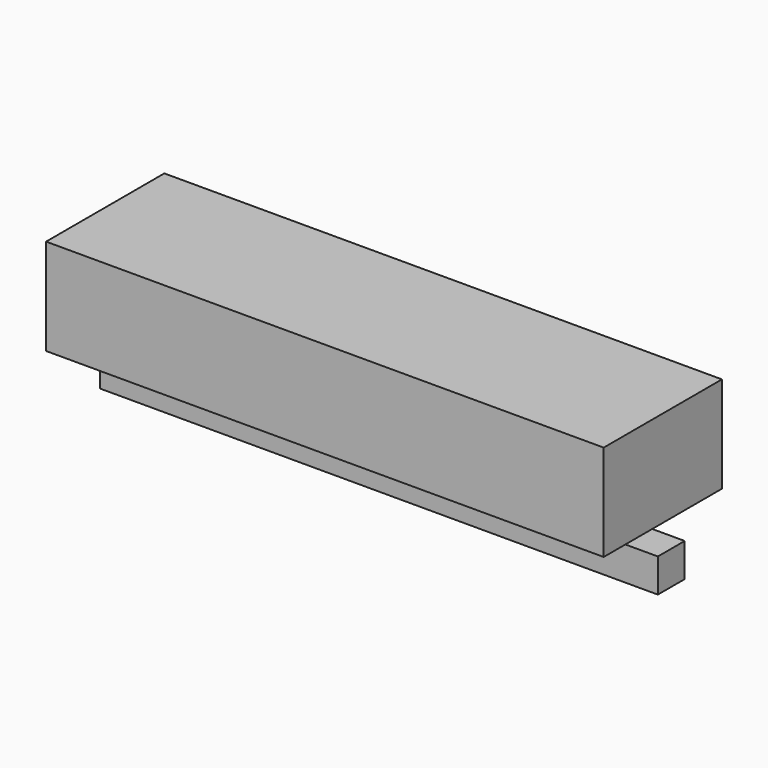
from build123d import *

# Parameters (mm, degrees)
F1_W     = 249
F1_H     = 43
F2_DEPTH = 33
F0_W     = 249
F0_H     = 15
F3_DEPTH = 7.5


with BuildPart() as f2:
    # F1 (on Front) → F2 (new body, symmetric)
    with BuildSketch(Plane.XZ):
        with Locations((-2.63338, 45.431261)):
            Rectangle(F1_W, F1_H)
    extrude(amount=F2_DEPTH, both=True)


with BuildPart() as f3:
    # F0 (on Front) → F3 (new body, symmetric)
    with BuildSketch(Plane.XZ):
        with Locations((1.15417, 7.5)):
            Rectangle(F0_W, F0_H)
    extrude(amount=F3_DEPTH, both=True)


solid = Compound([f2.part, f3.part])
